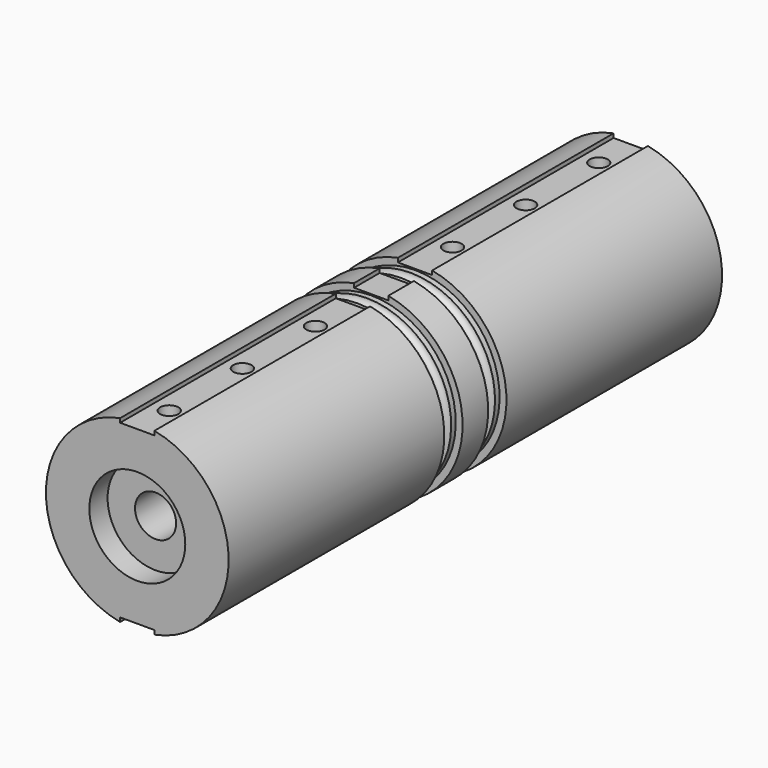
from build123d import *

# Parameters (mm, degrees)
F0_R      = 40
F0_R_2    = 9
F1_DEPTH  = 270
F3_W      = 15
F3_H      = 20
F4_DEPTH  = 270
F5_R      = 21
F6_DEPTH  = 10
F7_R      = 21
F8_DEPTH  = 10
F11_R     = 4
F12_DEPTH = 10
F13_R     = 4
F14_DEPTH = 10


with BuildPart() as f1:
    # F0 (on Front) → F1 (new body)
    with BuildSketch(Plane.XZ):
        Circle(F0_R)
        Circle(F0_R_2, mode=Mode.SUBTRACT)
    extrude(amount=F1_DEPTH)

    # F3 (on Front) → F4 (cut, through all)
    with BuildSketch(Plane.XZ):
        with Locations((0, 47.5)):
            Rectangle(F3_W, F3_H)
        with Locations((0, -47.5)):
            Rectangle(F3_W, F3_H)
    extrude(amount=F4_DEPTH, mode=Mode.SUBTRACT)

    # F5 (on face) → F6 (cut)
    with BuildSketch(Plane.XZ.offset(270)):
        Circle(F5_R)
    extrude(amount=-F6_DEPTH, mode=Mode.SUBTRACT)

    # F7 (on face) → F8 (cut)
    with BuildSketch(Plane(origin=(0, 0, 0), x_dir=(-1, 0, 0), z_dir=(0, 1, 0))):
        Circle(F7_R)
    extrude(amount=-F8_DEPTH, mode=Mode.SUBTRACT)

    # F9 (on Right) → F10 (revolve, cut)
    with BuildSketch(Plane.YZ):
        with BuildLine():
            Line((-120.5, 37), (-118, 37))
            Line((-118, 37), (-118, 55.05133))
            Line((-118, 55.05133), (-128, 55.05133))
            Line((-128, 55.05133), (-128, 37))
            Line((-128, 37), (-125.5, 37))
            ThreePointArc((-125.5, 37), (-123, 34.5), (-120.5, 37))
        make_face()
        with BuildLine():
            Line((-144.5, 37), (-142, 37))
            Line((-142, 37), (-142, 54.067336))
            Line((-142, 54.067336), (-152, 54.067336))
            Line((-152, 54.067336), (-152, 37))
            Line((-152, 37), (-149.5, 37))
            ThreePointArc((-149.5, 37), (-147, 34.5), (-144.5, 37))
        make_face()
    revolve(axis=Axis((0, -135, 0), (0, 1, 0)), mode=Mode.SUBTRACT)

    # F11 (on face) → F12 (cut)
    with BuildSketch(Plane.XY.offset(37.5)):
        with Locations((0, -17.5)):
            Circle(F11_R)
        with Locations((0, -57.5)):
            Circle(F11_R)
        with Locations((0, -97.5)):
            Circle(F11_R)
        with Locations((0, -252.5)):
            Circle(F11_R)
        with Locations((0, -212.5)):
            Circle(F11_R)
        with Locations((0, -172.5)):
            Circle(F11_R)
    extrude(amount=-F12_DEPTH, mode=Mode.SUBTRACT)

    # F13 (on face) → F14 (cut)
    with BuildSketch(Plane(origin=(0, 0, -37.5), x_dir=(1, 0, 0), z_dir=(0, 0, -1))):
        with BuildLine():
            Line((0, 17.5), (4, 17.5))
            ThreePointArc((4, 17.5), (2.828427, 20.328427), (0, 21.5))
            Line((0, 21.5), (0, 17.5))
        make_face()
        with BuildLine():
            ThreePointArc((4, 57.5), (-2.828427, 60.328427), (0, 53.5))
            ThreePointArc((0, 53.5), (2.828427, 54.671573), (4, 57.5))
        make_face()
        with BuildLine():
            ThreePointArc((0, 21.5), (-2.828427, 14.671573), (4, 17.5))
            Line((4, 17.5), (0, 17.5))
            Line((0, 17.5), (0, 21.5))
        make_face()
        with Locations((0, 97.5)):
            Circle(F13_R)
        with BuildLine():
            Line((0, 252.5), (4, 252.5))
            ThreePointArc((4, 252.5), (-2.828427, 255.328427), (0, 248.5))
            Line((0, 248.5), (0, 252.5))
        make_face()
        with BuildLine():
            ThreePointArc((4, 212.5), (2.828427, 215.328427), (0, 216.5))
            ThreePointArc((0, 216.5), (-2.828427, 209.671573), (4, 212.5))
        make_face()
        with BuildLine():
            ThreePointArc((0, 248.5), (2.828427, 249.671573), (4, 252.5))
            Line((4, 252.5), (0, 252.5))
            Line((0, 252.5), (0, 248.5))
        make_face()
        with Locations((0, 172.5)):
            Circle(F13_R)
    extrude(amount=-F14_DEPTH, mode=Mode.SUBTRACT)


solid = f1.part
